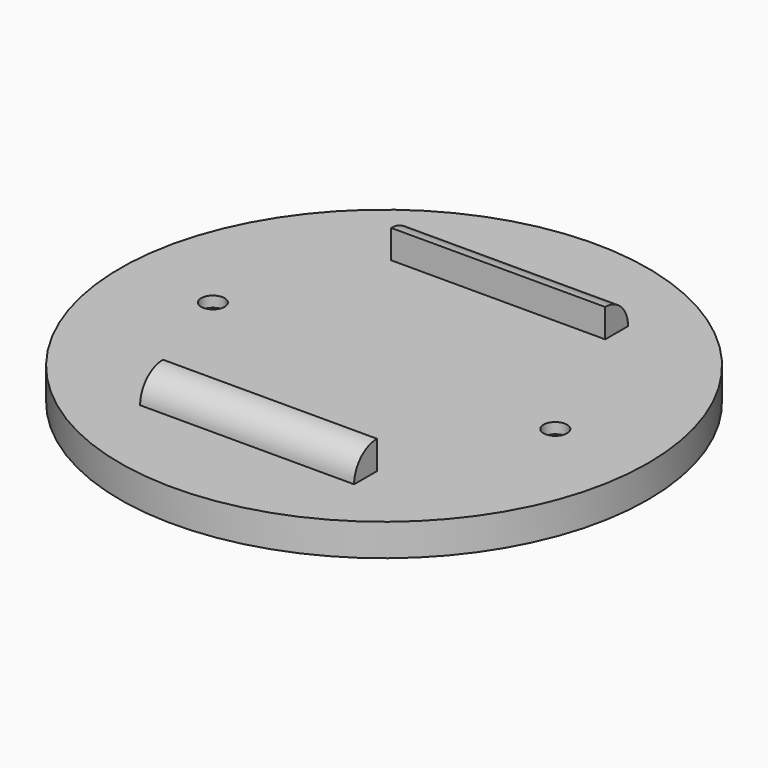
from build123d import *

# Parameters (mm, degrees)
F0_R     = 37
F1_DEPTH = 4.5
F3_DEPTH = 3.5
F5_DEPTH = 15
F6_R     = 1.65
F7_DEPTH = 4.501
F9_DEPTH = 3


with BuildPart() as f1:
    # F0 (on Top) → F1 (new body)
    with BuildSketch(Plane.XY):
        Circle(F0_R)
    extrude(amount=F1_DEPTH)

    # F2 (on face) → F3 (cut)
    with BuildSketch(Plane(origin=(0, 0, 0), x_dir=(1, 0, 0), z_dir=(0, 0, -1))):
        with BuildLine():
            ThreePointArc((3.479853, -0.375), (3.49496, -0.18777), (3.5, 0))
            ThreePointArc((3.5, 0), (3.49496, 0.18777), (3.479853, 0.375))
            ThreePointArc((3.479853, 0.375), (2.338536, 2.604083), (0, 3.5))
            ThreePointArc((0, 3.5), (-2.338536, 2.604083), (-3.479853, 0.375))
            ThreePointArc((-3.479853, 0.375), (-3.5, 0), (-3.479853, -0.375))
            ThreePointArc((-3.479853, -0.375), (0, -3.5), (3.479853, -0.375))
        make_face()
        with BuildLine():
            ThreePointArc((0, 3.5), (2.338536, 2.604083), (3.479853, 0.375))
            Line((3.479853, 0.375), (1.988487, 14.214286))
            ThreePointArc((1.988487, 14.214286), (1.99712, 14.107297), (2, 14))
            ThreePointArc((2, 14), (1.414214, 12.585786), (0, 12))
            Line((0, 12), (0, 3.5))
        make_face()
        with BuildLine():
            Line((1.988487, -14.214286), (3.479853, -0.375))
            ThreePointArc((3.479853, -0.375), (0, -3.5), (-3.479853, -0.375))
            Line((-3.479853, -0.375), (-1.988487, -14.214286))
            ThreePointArc((-1.988487, -14.214286), (-0.107297, -12.00288), (2, -14))
            ThreePointArc((2, -14), (1.99712, -14.107297), (1.988487, -14.214286))
        make_face()
        with BuildLine():
            ThreePointArc((-3.479853, 0.375), (-2.338536, 2.604083), (0, 3.5))
            Line((0, 3.5), (0, 12))
            ThreePointArc((0, 12), (-1.488048, 12.663694), (-1.988487, 14.214286))
            Line((-1.988487, 14.214286), (-3.479853, 0.375))
        make_face()
        with BuildLine():
            ThreePointArc((2, 14), (1.99712, 14.107297), (1.988487, 14.214286))
            ThreePointArc((1.988487, 14.214286), (0, 16), (-1.988487, 14.214286))
            ThreePointArc((-1.988487, 14.214286), (-1.488048, 12.663694), (0, 12))
            ThreePointArc((0, 12), (1.414214, 12.585786), (2, 14))
        make_face()
        with BuildLine():
            ThreePointArc((-1.988487, -14.214286), (0, -16), (1.988487, -14.214286))
            ThreePointArc((1.988487, -14.214286), (1.99712, -14.107297), (2, -14))
            ThreePointArc((2, -14), (-0.107297, -12.00288), (-1.988487, -14.214286))
        make_face()
    extrude(amount=-F3_DEPTH, mode=Mode.SUBTRACT)

    # F4 (on Right) → F5 (join, symmetric)
    with BuildSketch(Plane.YZ):
        with BuildLine():
            ThreePointArc((-20, 8.5), (-22.828427, 7.328427), (-24, 4.5))
            Line((-24, 4.5), (-20, 4.5))
            Line((-20, 4.5), (-20, 8.5))
        make_face()
        with BuildLine():
            Line((20, 8.5), (20, 4.5))
            Line((20, 4.5), (24, 4.5))
            ThreePointArc((24, 4.5), (22.828427, 7.328427), (20, 8.5))
        make_face()
    extrude(amount=F5_DEPTH, both=True)

    # F6 (on face) → F7 (cut, through all)
    with BuildSketch(Plane.XY.offset(4.5)):
        with Locations((-24, 0)):
            Circle(F6_R)
        with Locations((24, 0)):
            Circle(F6_R)
    extrude(amount=-F7_DEPTH, mode=Mode.SUBTRACT)

    # F8 (on face) → F9 (cut)
    with BuildSketch(Plane(origin=(0, 0, 0), x_dir=(1, 0, 0), z_dir=(0, 0, -1))):
        Polygon((22.412287, 2.75), (20.824574, 0), (22.412287, -2.75), (25.587713, -2.75), (27.175426, 0), (25.587713, 2.75), align=None)
        Polygon((-22.412287, -2.75), (-20.824574, 0), (-22.412287, 2.75), (-25.587713, 2.75), (-27.175426, 0), (-25.587713, -2.75), align=None)
    extrude(amount=-F9_DEPTH, mode=Mode.SUBTRACT)


solid = f1.part
